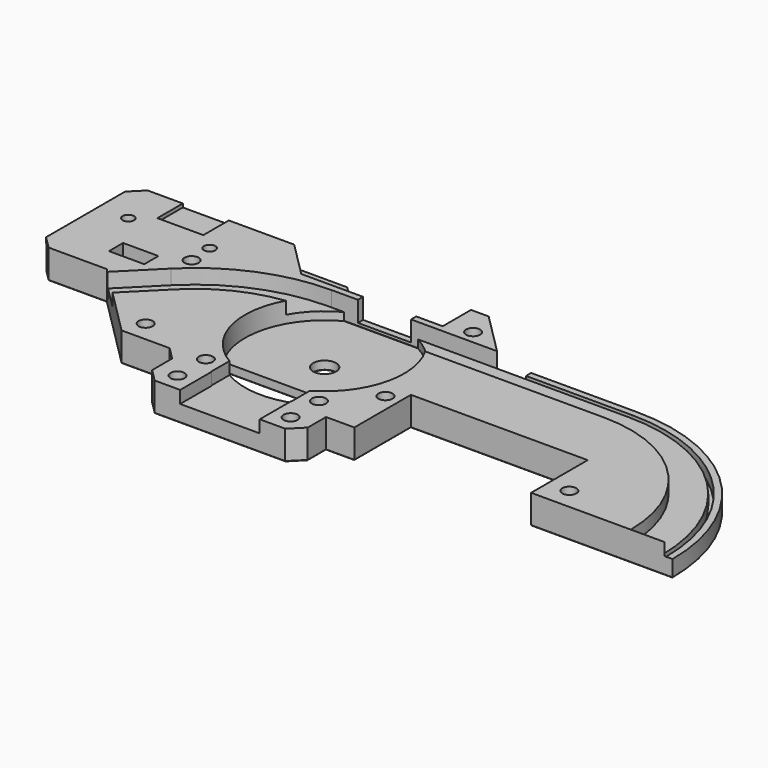
from build123d import *

# Parameters (mm, degrees)
SKETCH_R        = 2
SKETCH_R_2      = 3.25
SKETCH_R_3      = 3
SKETCH_R_4      = 1.625
SKETCH_W        = 10
SKETCH_H        = 5
PAD_DEPTH       = 8.25
POCKET_DEPTH    = 5.75
POCKET001_DEPTH = 8.5
POCKET002_DEPTH = 3.5
SKETCH006_W     = 5
SKETCH006_H     = 29
SKETCH006_W_2   = 16.5
SKETCH006_H_2   = 6
POCKET003_DEPTH = 7
CHAMFER_SIZE    = 4.9
CHAMFER001_SIZE = 4
FILLET_R        = 10
POCKET004_DEPTH = 3.5
SKETCH008_W     = 13
SKETCH008_H     = 9
POCKET005_DEPTH = 1
CHAMFER002_SIZE = 0.2


with BuildPart() as part:
    # Sketch → Pad (new body)
    with BuildSketch(Plane.XY):
        with BuildLine():
            Line((0, 20), (50, 20))
            Line((50, 20), (50, 0))
            Line((50, 0), (90, 0))
            ThreePointArc((90, 0), (75.3553389698, 35.3553391489), (39.9999997467, 50))
            Line((0, 50), (39.9999997467, 50))
            Line((-10, 60), (0, 50))
            Line((-15, 60), (-10, 60))
            Line((-15, 50), (-15, 60))
            Line((-40, 50), (-15, 50))
            Line((-50, 60), (-40, 50))
            Line((-106.4644660941, 60), (-50, 60))
            Line((-110, 56.4644660941), (-106.4644660941, 60))
            Line((-110, 28.5355339059), (-110, 56.4644660941))
            Line((-106.4644660941, 25), (-110, 28.5355339059))
            Line((-90, 25), (-106.4644660941, 25))
            Line((-69.14, 4.14), (-90, 25))
            Line((-55.5355339059, 4.14), (-69.14, 4.14))
            Line((-52, 0.6044660941), (-55.5355339059, 4.14))
            Line((-52, -6.4644660941), (-52, 0.6044660941))
            Line((-48.4644660941, -10), (-52, -6.4644660941))
            Line((-11.5355339059, -10), (-48.4644660941, -10))
            Line((-8, -6.4644660941), (-11.5355339059, -10))
            Line((-8, 0), (-8, -6.4644660941))
            Line((0, 0), (-8, 0))
            Line((0, 0), (0, 20))
        make_face()
        with Locations((56, 6)):
            Circle(SKETCH_R, mode=Mode.SUBTRACT)
        with Locations((-4, 16)):
            Circle(SKETCH_R, mode=Mode.SUBTRACT)
        with Locations((-8, 52)):
            Circle(SKETCH_R, mode=Mode.SUBTRACT)
        with Locations((-67, 10)):
            Circle(SKETCH_R, mode=Mode.SUBTRACT)
        with Locations((-78, 40)):
            Circle(SKETCH_R, mode=Mode.SUBTRACT)
        with Locations((-30, 27)):
            Circle(SKETCH_R_2, mode=Mode.SUBTRACT)
        with Locations((-46, 5)):
            Circle(SKETCH_R, mode=Mode.SUBTRACT)
        with Locations((-46, -5)):
            Circle(SKETCH_R, mode=Mode.SUBTRACT)
        with Locations((-14, 5)):
            Circle(SKETCH_R, mode=Mode.SUBTRACT)
        with Locations((-14, -5)):
            Circle(SKETCH_R, mode=Mode.SUBTRACT)
        with Locations((-52.5, 55.5)):
            Circle(SKETCH_R_3, mode=Mode.SUBTRACT)
        with Locations((-101.5, 47)):
            Circle(SKETCH_R_4, mode=Mode.SUBTRACT)
        with Locations((-78.5, 47)):
            Circle(SKETCH_R_4, mode=Mode.SUBTRACT)
        with Locations((-90, 34.5)):
            Rectangle(SKETCH_W, SKETCH_H, mode=Mode.SUBTRACT)
    extrude(amount=PAD_DEPTH)

    # SubtractivePipe: sweep along a path in Sketch001
    with BuildLine(Plane.XY.offset(8.25)) as subtractivepipe_path:
        Line((-70.9793119541, 1.9514059028), (-58.9653585777, 13.9653592792))
        ThreePointArc((-58.9653585777, 13.9653592792), (-52.5579976182, 18.2466208379), (-45.0000001258, 19.75))
        Line((-45.0000001258, 19.75), (39.9999998705, 19.75))
        ThreePointArc((39.9999998705, 19.75), (53.9653588826, 13.9653589742), (59.75, 0))
    # Sketch002 (on Face17 of Pad) → SubtractivePipe (sweep, cut)
    with BuildSketch(Plane(origin=(-32.5, -32.5, 0), x_dir=(0.7071067812, -0.7071067812, 0), z_dir=(-0.7071067812, -0.7071067812, 0))):
        Polygon((-80, 8.25), (-80, 1.75), (-78.75, 1.75), (-78.75, 4.75), (-70, 4.75), (-70, 8.25), align=None)
    sweep(path=subtractivepipe_path.line, mode=Mode.SUBTRACT)

    # Sketch003 (on DatumPlane) → Pocket (cut)
    with BuildSketch(Plane.XY.offset(8.25)):
        with BuildLine():
            ThreePointArc((-37.5, 48.2132034356), (-30, 4.5), (-22.5, 48.2132034356))
            Line((-22.5, 50.2132034356), (-22.5, 48.2132034356))
            Line((-37.5, 50.2132034356), (-22.5, 50.2132034356))
            Line((-37.5, 48.2132034356), (-37.5, 50.2132034356))
        make_face()
        Polygon((0, 50), (2, 48), (10, 48), (10, 50), align=None)
        Polygon((-40, 50), (-55, 50), (-65, 60), (-50, 60), align=None)
    extrude(amount=-POCKET_DEPTH, mode=Mode.SUBTRACT)

    # Sketch004 (on DatumPlane) → Pocket001 (cut)
    with BuildSketch(Plane.XY.offset(8.25)):
        with BuildLine():
            ThreePointArc((-49.0328663107, 15), (-30, 4.5), (-10.9671336893, 15))
            Line((-49.0328663107, 15), (-10.9671336893, 15))
        make_face()
    extrude(amount=-POCKET001_DEPTH, mode=Mode.SUBTRACT)

    # Sketch005 (on DatumPlane) → Pocket002 (cut)
    with BuildSketch(Plane.XY.offset(8.25)):
        Polygon((-41.375, 10), (-18.625, 10), (-18.625, 1), (-18.75, 1), (-18.75, -10), (-41.25, -10), (-41.25, 1), (-41.375, 1), align=None)
    extrude(amount=-POCKET002_DEPTH, mode=Mode.SUBTRACT)

    # Sketch006 → Pocket003 (cut)
    with BuildSketch(Plane.XY):
        with Locations((-107.5, 42.5)):
            Rectangle(SKETCH006_W, SKETCH006_H)
        with Locations((-96.25, 57)):
            Rectangle(SKETCH006_W_2, SKETCH006_H_2)
    extrude(amount=POCKET003_DEPTH, mode=Mode.SUBTRACT)

    # Chamfer
    chamfer_edges = [part.edges().sort_by_distance(p)[0] for p in [
        (-96.25, 54, 7),
        (-105, 42.5, 7),
    ]]
    chamfer(chamfer_edges, length=CHAMFER_SIZE)

    # Chamfer001
    chamfer001_edges = [part.edges().sort_by_distance(p)[0] for p in [
        (-90, 32, 0),
    ]]
    chamfer(chamfer001_edges, length=CHAMFER001_SIZE)

    # Fillet
    fillet_edges = [part.edges().sort_by_distance(p)[0] for p in [
        (-90, 32, 4),
    ]]
    fillet(fillet_edges, radius=FILLET_R)

    # Sketch007 (on DatumPlane) → Pocket004 (cut)
    with BuildSketch(Plane.XY.offset(8.25)):
        with BuildLine():
            ThreePointArc((87.7395276474, -1), (74.1160699454, 33.4089250273), (39.9999991, 47.75))
            Line((9.5, 47.75), (39.9999991, 47.75))
            Line((9.5, 50.25), (9.5, 47.75))
            Line((40, 50.25), (9.5, 50.25))
            ThreePointArc((90.2400487659, -1), (75.8839274606, 35.176785669), (40, 50.25))
            Line((87.7395276474, -1), (90.2400487659, -1))
        make_face()
    extrude(amount=-POCKET004_DEPTH, mode=Mode.SUBTRACT)

    # Sketch008 (on DatumPlane) → Pocket005 (cut)
    with BuildSketch(Plane.XY.offset(8.25)):
        with Locations((-90, 55.5)):
            Rectangle(SKETCH008_W, SKETCH008_H)
    extrude(amount=-POCKET005_DEPTH, mode=Mode.SUBTRACT)

    # Chamfer002
    chamfer002_edges = [part.edges().sort_by_distance(p)[0] for p in [
        (-85, 30, 0),
        (-85, 34.5, 0),
        (-90, 28, 0),
        (-90, 37, 0),
        (-95, 30, 0),
        (-95, 34.5, 0),
        (-4, 0, 0),
        (-8, -3.232233, 0),
        (-9.767767, -8.232233, 0),
        (-30, -10, 0),
        (-50.232233, -8.232233, 0),
        (-52, -2.93, 0),
        (-53.767767, 2.372233, 0),
        (-62.337767, 4.14, 0),
        (-79.57, 14.57, 0),
        (-98.232233, 25, 0),
        (-107.964466, 26.5, 0),
        (-107.232233, 28, 0),
        (-105, 42.5, 0),
        (-107.232233, 57, 0),
        (-107.964466, 58.5, 0),
        (-105.482233, 60, 0),
        (-104.5, 57, 0),
        (-96.25, 54, 0),
        (-88, 57, 0),
        (-69, 60, 0),
        (-45, 55, 0),
        (-27.5, 50, 0),
        (-15, 55, 0),
        (-12.5, 60, 0),
        (-5, 55, 0),
        (20, 50, 0),
        (75.355339, 35.355339, 0),
        (70, 0, 0),
        (50, 10, 0),
        (25, 20, 0),
        (0, 10, 0),
        (-80.125, 47, 0),
        (-55.5, 55.5, 0),
        (-80, 40, 0),
        (-48, -5, 0),
        (-16, -5, 0),
        (-30, 4.5, 0),
        (-30, 15, 0),
        (-16, 5, 0),
        (-48, 5, 0),
        (-69, 10, 0),
        (-33.25, 27, 0),
        (-10, 52, 0),
        (-6, 16, 0),
        (54, 6, 0),
        (-103.125, 47, 0),
    ]]
    chamfer(chamfer002_edges, length=CHAMFER002_SIZE)


solid = part.part
